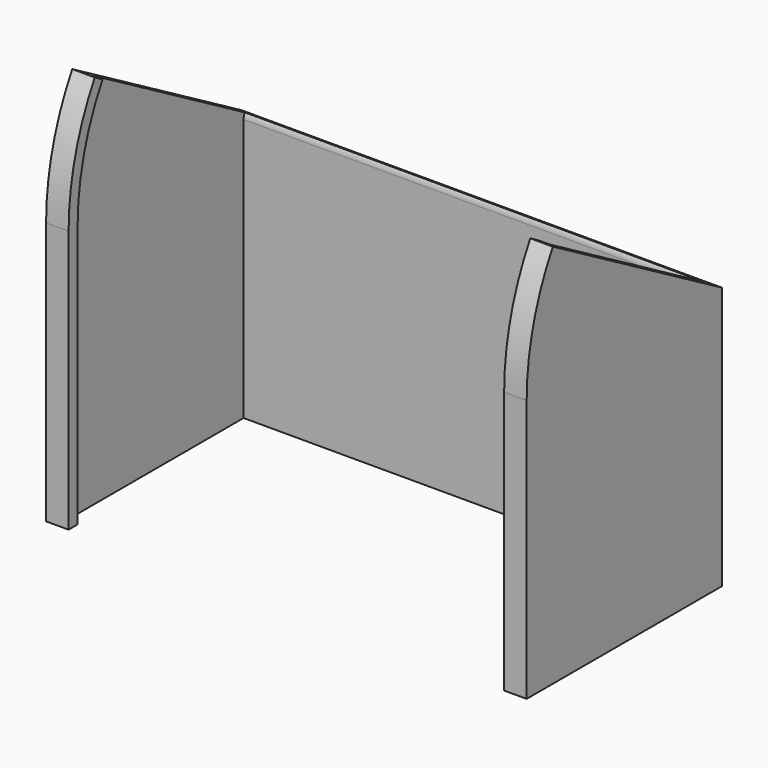
from build123d import *

# Parameters (mm, degrees)
F1_DEPTH = 70
F2_ANGLE = 30


with BuildPart() as f1:
    # F0 (on Top) → F1 (new body)
    with BuildSketch(Plane.XY):
        Polygon((-6, -32.2196190416), (0, -32.2196190416), (0, -29.2196190416), (-3, -29.2196190416), (-3, 29.7803809584), (119, 29.7803809584), (119, -29.2196190416), (116, -29.2196190416), (116, -32.2196190416), (122, -32.2196190416), (122, 32.7803809584), (-6, 32.7803809584), align=None)
    extrude(amount=F1_DEPTH)

    # F1_face (on face) → F2 (revolve)
    with BuildSketch(Plane(origin=(58, 14.2183654545, 70), x_dir=(1, 0, 0), z_dir=(0, 0, 1))):
        Polygon((64, -46.4379844961), (64, 18.5620155039), (-64, 18.5620155039), (-64, -46.4379844961), (-58, -46.4379844961), (-58, -43.4379844961), (-61, -43.4379844961), (-61, 15.5620155039), (61, 15.5620155039), (61, -43.4379844961), (58, -43.4379844961), (58, -46.4379844961), align=None)
    revolve(axis=Axis((58, 32.7803809584, 70), (-1, 0, 0)), revolution_arc=F2_ANGLE)


solid = f1.part
